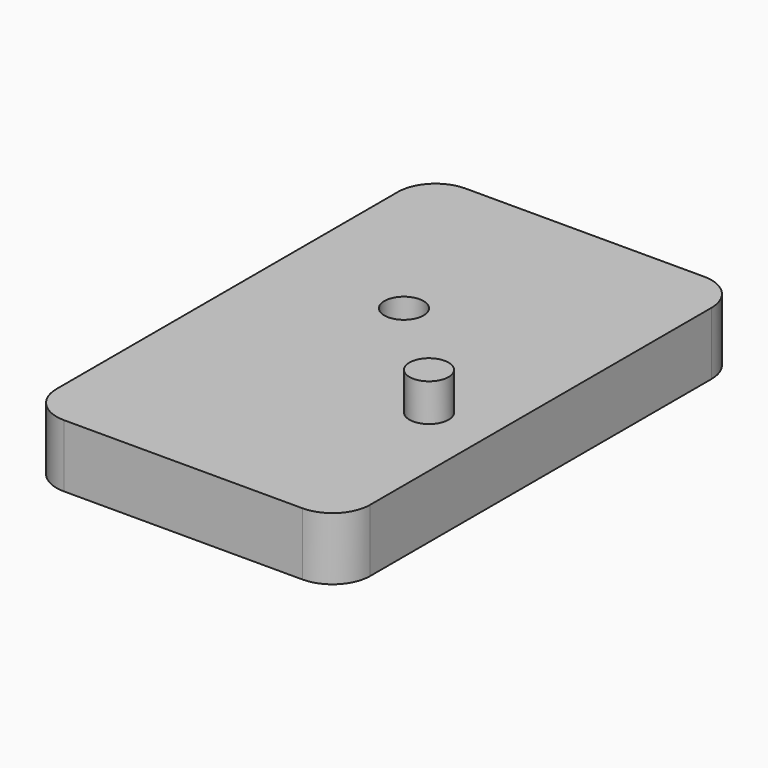
from build123d import *

# Parameters (mm, degrees)
SKETCH_W     = 25
SKETCH_H     = 40
SKETCH_R     = 1.5625
PAD_DEPTH    = 5
FILLET_R     = 3
SKETCH001_R  = 1.56
PAD001_DEPTH = 3


with BuildPart() as part:
    # Sketch → Pad (new body)
    with BuildSketch(Plane.XY):
        with Locations((22.40888, 20)):
            Rectangle(SKETCH_W, SKETCH_H)
        with Locations((20, 25)):
            Circle(SKETCH_R, mode=Mode.SUBTRACT)
    extrude(amount=PAD_DEPTH)

    # Fillet
    fillet_edges = [part.edges().sort_by_distance(p)[0] for p in [
        (9.90888, 0, 2.5),
        (34.90888, 0, 2.5),
        (34.90888, 40, 2.5),
        (9.90888, 40, 2.5),
    ]]
    fillet(fillet_edges, radius=FILLET_R)

    # Sketch001 (on Face7 of Pad) → Pad001 (join)
    with BuildSketch(Plane.XY.offset(5)):
        with Locations((30, 15)):
            Circle(SKETCH001_R)
    extrude(amount=PAD001_DEPTH)


solid = part.part
